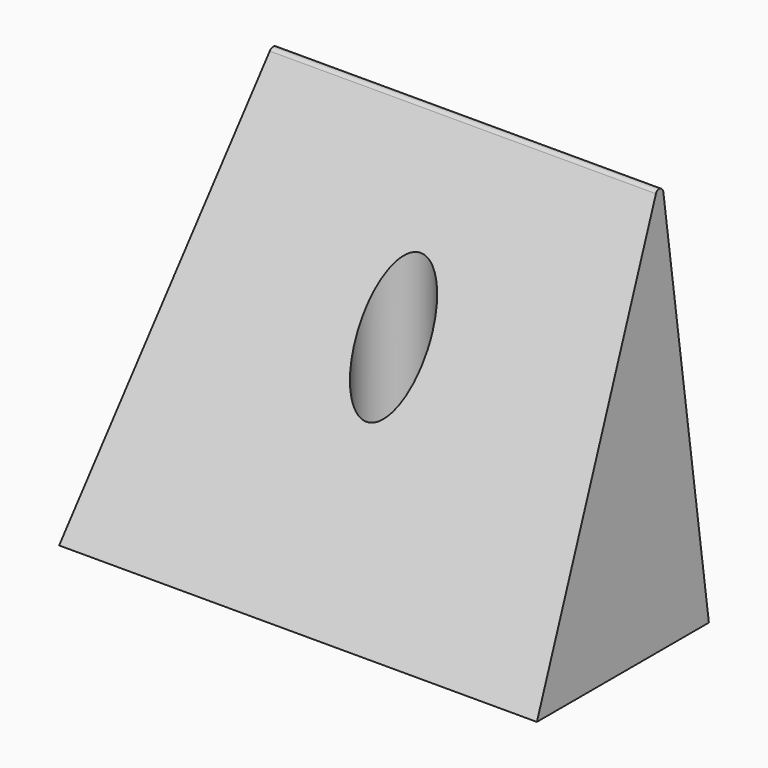
from build123d import *

# Parameters (mm, degrees)
F1_DEPTH       = 45
F3_DEPTH       = 50.001
F3_DEPTH_BACK  = 50.001
F6_D           = 8.8
F6_CBORE_D     = 14.25
F6_CBORE_DEPTH = 8
F5_R           = 7.125
F7_DEPTH       = 80
F8_R           = 1


with BuildPart() as f1:
    # F0 (on Front) → F1 (new body)
    with BuildSketch(Plane.XZ):
        Polygon((-50, 0), (50, 0), (40, 80), (-40, 80), align=None)
    extrude(amount=F1_DEPTH)

    # F2 (on Right) → F3 (cut, two sides)
    with BuildSketch(Plane.YZ) as f3_sk:
        Polygon((-45, 0), (0, 80), (-45, 80), align=None)
    extrude(amount=-F3_DEPTH, mode=Mode.SUBTRACT)
    extrude(f3_sk.sketch, amount=F3_DEPTH_BACK, mode=Mode.SUBTRACT)

    # F6 (through all)
    with Locations(Plane.XY.offset(25)):
        with Locations((0, -20)):
            CounterBoreHole(F6_D / 2, F6_CBORE_D / 2, F6_CBORE_DEPTH)

    # F5 (on offset) → F7 (cut)
    with BuildSketch(Plane.XY.offset(25)):
        with Locations((0, -20)):
            Circle(F5_R)
    extrude(amount=F7_DEPTH, mode=Mode.SUBTRACT)

    # F8
    f8_edges = [f1.edges().sort_by_distance(p)[0] for p in [
        (0, 0, 80),
    ]]
    fillet(f8_edges, radius=F8_R)


solid = f1.part
